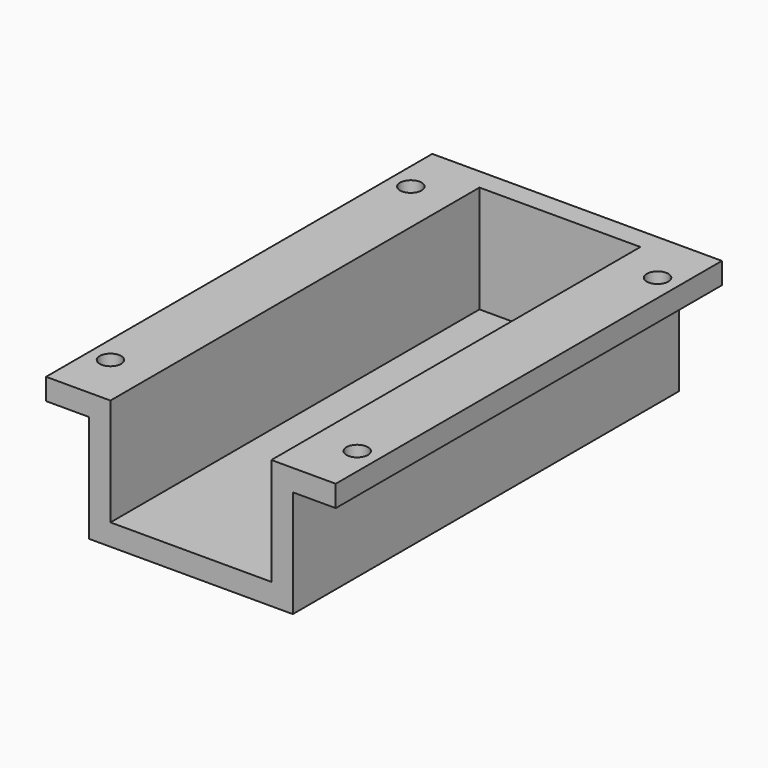
from build123d import *

# Parameters (mm, degrees)
SKETCH_W        = 19
SKETCH_H        = 45
PAD_DEPTH       = 2
SKETCH001_W     = 2
SKETCH001_H     = 45
SKETCH001_W_2   = 15
SKETCH001_H_2   = 2
PAD001_DEPTH    = 10
SKETCH002_W     = 45
SKETCH002_H     = 2
PAD002_DEPTH    = 4
SKETCH003_W     = 45
SKETCH003_H     = 2
PAD003_DEPTH    = 4
SKETCH004_R     = 1
POCKET_DEPTH    = 5
SKETCH005_R     = 1
POCKET001_DEPTH = 5


with BuildPart() as part:
    # Sketch → Pad (new body)
    with BuildSketch(Plane.XY):
        with Locations((9.5, 22.5)):
            Rectangle(SKETCH_W, SKETCH_H)
    extrude(amount=PAD_DEPTH)

    # Sketch001 → Pad001 (new body)
    with BuildSketch(Plane.XY.offset(2)):
        with Locations((1, 22.5)):
            Rectangle(SKETCH001_W, SKETCH001_H)
        with Locations((18, 22.5)):
            Rectangle(SKETCH001_W, SKETCH001_H)
        with Locations((9.5, 44)):
            Rectangle(SKETCH001_W_2, SKETCH001_H_2)
    extrude(amount=PAD001_DEPTH)

    # Sketch002 → Pad002 (new body)
    with BuildSketch(Plane.YZ.offset(19)):
        with Locations((22.5, 11)):
            Rectangle(SKETCH002_W, SKETCH002_H)
    extrude(amount=PAD002_DEPTH)

    # Sketch003 → Pad003 (new body)
    with BuildSketch(Plane(origin=(0, 0, 0), x_dir=(0, -1, 0), z_dir=(-1, 0, 0))):
        with Locations((-22.5, 11)):
            Rectangle(SKETCH003_W, SKETCH003_H)
    extrude(amount=PAD003_DEPTH)

    # Sketch004 → Pocket (cut)
    with BuildSketch(Plane(origin=(0, 0, 10), x_dir=(1, 0, 0), z_dir=(0, 0, -1))):
        with Locations((-2, -5)):
            Circle(SKETCH004_R)
        with Locations((-2, -40)):
            Circle(SKETCH004_R)
    extrude(amount=-POCKET_DEPTH, mode=Mode.SUBTRACT)

    # Sketch005 → Pocket001 (cut)
    with BuildSketch(Plane(origin=(0, 0, 10), x_dir=(1, 0, 0), z_dir=(0, 0, -1))):
        with Locations((21, -5)):
            Circle(SKETCH005_R)
        with Locations((21, -40)):
            Circle(SKETCH005_R)
    extrude(amount=-POCKET001_DEPTH, mode=Mode.SUBTRACT)


solid = part.part
